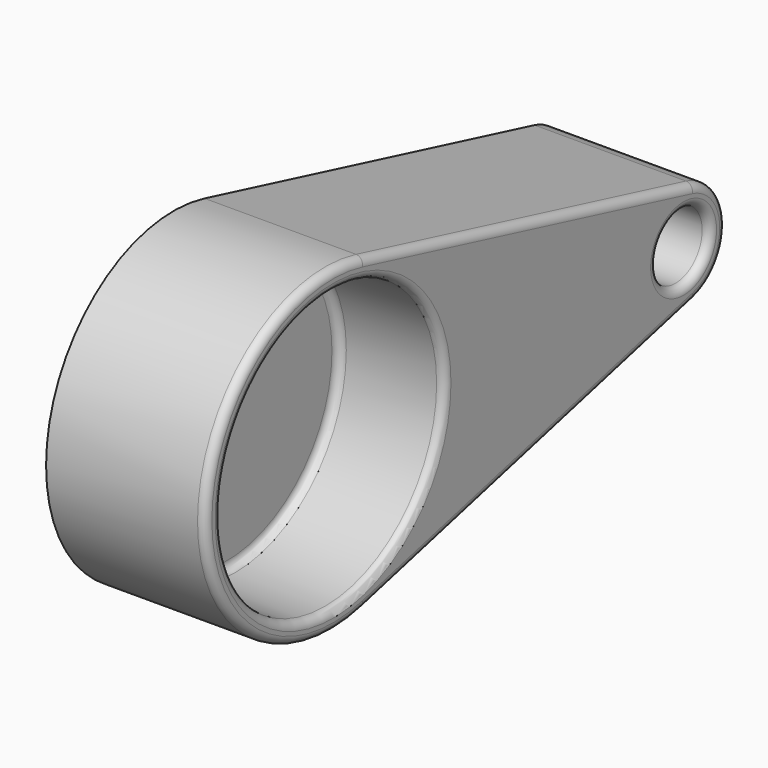
from build123d import *

# Parameters (mm, degrees)
F1_DEPTH = 76.2
F2_R     = 66.675
F2_R_2   = 15.875
F3_DEPTH = 50.8
F4_T     = -2.54
F5_R     = 3.81
F6_R     = 3.81


with BuildPart() as f1:
    # F0 (on Right) → F1 (new body)
    with BuildSketch(Plane.YZ):
        with BuildLine():
            ThreePointArc((18.4812146278, -73.9248585111), (60.0612543768, -46.8944103565), (76.2, 0))
            ThreePointArc((76.2, 0), (60.0612543768, 46.8944103565), (18.4812146278, 73.9248585111))
            ThreePointArc((18.4812146278, 73.9248585111), (-76.2, 0), (18.4812146278, -73.9248585111))
        make_face()
        with BuildLine():
            ThreePointArc((18.4812146278, 73.9248585111), (60.0612543768, 46.8944103565), (76.2, 0))
            ThreePointArc((76.2, 0), (60.0612543768, -46.8944103565), (18.4812146278, -73.9248585111))
            Line((18.4812146278, -73.9248585111), (215.6141706573, -24.6416195037))
            ThreePointArc((215.6141706573, -24.6416195037), (184.2029995957, -2.7493284703), (210.1666790363, 25.3899931999))
            ThreePointArc((210.1666790363, 25.3899931999), (212.910735745, 25.1636515369), (215.6141706573, 24.6416195037))
            Line((215.6141706573, 24.6416195037), (18.4812146278, 73.9248585111))
        make_face()
        with BuildLine():
            Line((210.1666790363, 25.3899931999), (215.6141706573, 24.6416195037))
            ThreePointArc((215.6141706573, 24.6416195037), (212.910735745, 25.1636515369), (210.1666790363, 25.3899931999))
        make_face()
        with BuildLine():
            ThreePointArc((234.8537657814, 0), (229.474183907, 15.6314701188), (215.6141706573, 24.6416195037))
            Line((215.6141706573, 24.6416195037), (210.1666790363, 25.3899931999))
            ThreePointArc((210.1666790363, 25.3899931999), (184.2029995957, -2.7493284703), (215.6141706573, -24.6416195037))
            ThreePointArc((215.6141706573, -24.6416195037), (229.474183907, -15.6314701188), (234.8537657814, 0))
        make_face()
    extrude(amount=F1_DEPTH)

    # F2 (on face) → F3 (cut)
    with BuildSketch(Plane.YZ.offset(76.2)):
        Circle(F2_R)
        with Locations((209.4537657814, 0)):
            Circle(F2_R_2)
    extrude(amount=-F3_DEPTH, mode=Mode.SUBTRACT)

    # F4
    f4_openings = [f1.faces().sort_by_distance(p)[0] for p in [
        (0, 57.51924, 0),
    ]]
    offset(amount=F4_T, openings=f4_openings, kind=Kind.INTERSECTION)

    # F5
    f5_edges = [f1.edges().sort_by_distance(p)[0] for p in [
        (76.2, -76.2, 0),
        (76.2, 117.047693, 49.283239),
        (76.2, 117.047693, -49.283239),
        (76.2, 234.853766, 0),
        (76.2, -66.675, 0),
        (76.2, 193.578766, 0),
    ]]
    fillet(f5_edges, radius=F5_R)

    # F6
    f6_edges = [f1.edges().sort_by_distance(p)[0] for p in [
        (25.4, -66.675, 0),
        (25.4, 193.578766, 0),
    ]]
    fillet(f6_edges, radius=F6_R)


solid = f1.part
